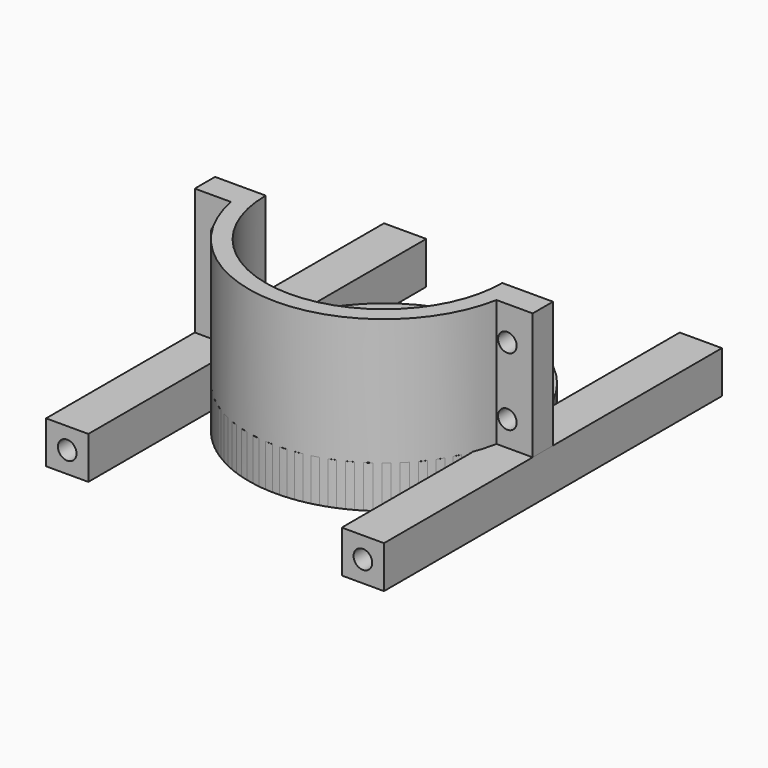
from build123d import *

# Parameters (mm, degrees)
PAD001_DEPTH    = 20
SKETCH002_R     = 1.1
POCKET_DEPTH    = 16.001
SKETCH_R        = 12
PAD_DEPTH       = 5
SKETCH003_R     = 1.1
POCKET001_DEPTH = 50.001


with BuildPart() as fastenerholesbracket:
    # Sketch001 → Pad001 (new body)
    with BuildSketch(Plane.XY):
        with BuildLine():
            Line((-15.716234, -3), (-20, -3))
            Line((-20, -3), (-20, 0))
            Line((-20, 0), (-14, 0))
            ThreePointArc((-14, 0), (0, -14), (14, 0))
            Line((14, 0), (20, 0))
            Line((20, 0), (20, -3))
            Line((20, -3), (15.716234, -3))
            ThreePointArc((-15.716234, -3), (0, -16), (15.716234, -3))
        make_face()
    extrude(amount=PAD001_DEPTH)

    # Sketch002 → Pocket (cut, through all)
    with BuildSketch(Plane(origin=(0, 0, 0), x_dir=(-1, 0, 0), z_dir=(0, 1, 0))):
        with Locations((-17, 16)):
            Circle(SKETCH002_R)
        with Locations((-17, 8)):
            Circle(SKETCH002_R)
        with Locations((17, 16)):
            Circle(SKETCH002_R)
        with Locations((17, 8)):
            Circle(SKETCH002_R)
    extrude(amount=-POCKET_DEPTH, mode=Mode.SUBTRACT)


with BuildPart() as fastenerholespocket:
    # Sketch → Pad (new body)
    with BuildSketch(Plane.XY):
        with BuildLine():
            Line((-20, 25), (-20, -25))
            Line((-20, -25), (-15, -25))
            Line((-15, -25), (-15, -5.567764))
            ThreePointArc((-15, -5.567764), (0, -16), (15, -5.567764))
            Line((15, -25), (15, -5.567764))
            Line((20, -25), (15, -25))
            Line((20, 25), (20, -25))
            Line((15, 25), (20, 25))
            Line((15, 5.567764), (15, 25))
            ThreePointArc((15, 5.567764), (0, 16), (-15, 5.567764))
            Line((-15, 25), (-15, 5.567764))
            Line((-20, 25), (-15, 25))
        make_face()
        Circle(SKETCH_R, mode=Mode.SUBTRACT)
    extrude(amount=PAD_DEPTH)

    # Sketch003 → Pocket001 (cut, through all)
    with BuildSketch(Plane(origin=(0, 25, 0), x_dir=(-1, 0, 0), z_dir=(0, 1, 0))):
        with Locations((-17.5, 2.5)):
            Circle(SKETCH003_R)
        with Locations((17.5, 2.5)):
            Circle(SKETCH003_R)
    extrude(amount=-POCKET001_DEPTH, mode=Mode.SUBTRACT)


solid = Compound([fastenerholesbracket.part, fastenerholespocket.part])
